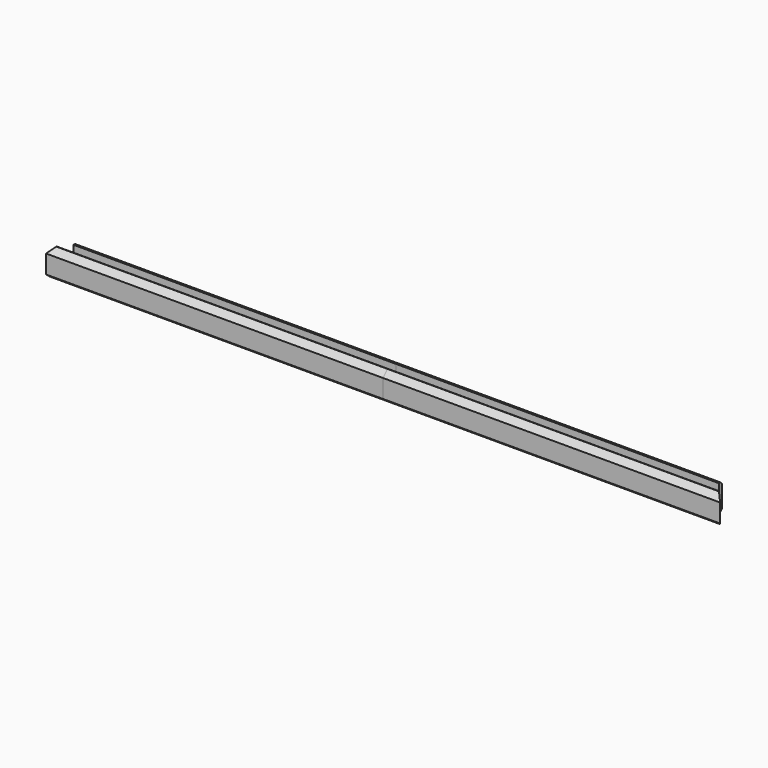
from build123d import *

# Parameters (mm, degrees)
F1_DEPTH = 2
F2_W     = 171.4
F2_H     = 2
F3_DEPTH = 11.8
F4_SIZE  = 3
F5_SIZE  = 1


with BuildPart() as f1:
    # F0 (on Top) → F1 (new body)
    with BuildSketch(Plane.XY):
        Polygon((0, 10.7), (0, 0), (179, 0), (171.4, 7.6), (171.4, 10.7), align=None)
    extrude(amount=F1_DEPTH)

    # F2 (on face) → F3 (join)
    with BuildSketch(Plane.XY.offset(2)):
        Polygon((175.8, 3.2), (0, 3.2), (0, 0), (179, 0), align=None)
        with Locations((85.7, 9.7)):
            Rectangle(F2_W, F2_H)
    extrude(amount=F3_DEPTH)

    # F4
    f4_edges = [f1.edges().sort_by_distance(p)[0] for p in [
        (89.5, 0, 13.8),
    ]]
    chamfer(f4_edges, length=F4_SIZE)

    # F5
    f5_edges = [f1.edges().sort_by_distance(p)[0] for p in [
        (89.5, 0, 0),
        (85.7, 10.7, 0),
        (85.7, 10.7, 13.8),
    ]]
    chamfer(f5_edges, length=F5_SIZE)


with BuildPart() as f6_1:
    # F6: instance of F1
    add(f1.part.mirror(Plane.YZ))


solid = Compound([f1.part, f6_1.part])
